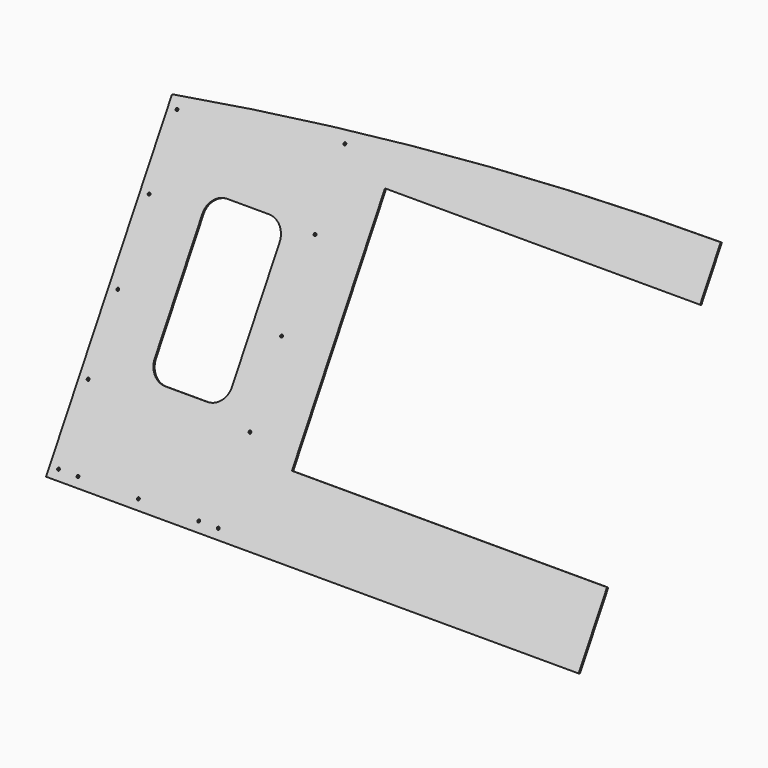
from build123d import *

# Parameters (mm, degrees)
PAD003_DEPTH            = 2
SKETCH080_R             = 1.5
POCKET040_DEPTH         = 5
SKETCH087_R             = 1.5
POCKET045_DEPTH         = 5
BODY002_PLACEMENT_ANGLE = 330


with BuildPart() as part:
    # Sketch052 → Pad003 (new body)
    with BuildSketch(Plane.XZ):
        with BuildLine():
            Line((-300, -200), (300, -200))
            Line((300, -200), (300, -120))
            Line((-55, -120), (300, -120))
            Line((-55, 142), (-55, -120))
            Line((300, 142), (-55, 142))
            Line((300, 142), (300, 200))
            ThreePointArc((300, 200), (-0.85049, 188.685012), (-300, 154.79376))
            Line((-300, 154.79376), (-300, -200))
        make_face()
        with BuildLine():
            Line((-230, 65.13076), (-230, -68.86924))
            ThreePointArc((-230, -68.86924), (-224.142136, -83.011376), (-210, -88.86924))
            Line((-210, -88.86924), (-163, -88.86924))
            ThreePointArc((-163, -88.86924), (-148.857864, -83.011376), (-143, -68.86924))
            Line((-143, -68.86924), (-143, 65.13076))
            ThreePointArc((-143, 65.13076), (-148.857864, 79.272896), (-163, 85.13076))
            Line((-163, 85.13076), (-210, 85.13076))
            ThreePointArc((-210, 85.13076), (-224.142136, 79.272896), (-230, 65.13076))
        make_face(mode=Mode.SUBTRACT)
    extrude(amount=-PAD003_DEPTH)

    # Sketch080 (on Face2 of Binder014) → Pocket040 (cut)
    with BuildSketch(Plane(origin=(0, 3.732051, 0), x_dir=(-1, 0, 0), z_dir=(0, 1, 0))):
        with Locations((290, -190)):
            Circle(SKETCH080_R)
        with Locations((110, -190)):
            Circle(SKETCH080_R)
        with Locations((110, -100.851579)):
            Circle(SKETCH080_R)
        with Locations((110, -11.703157)):
            Circle(SKETCH080_R)
        with Locations((110, 82.445264)):
            Circle(SKETCH080_R)
        with Locations((110, 166.593685)):
            Circle(SKETCH080_R)
        with Locations((290, 143.673156)):
            Circle(SKETCH080_R)
        with Locations((290, 65.254867)):
            Circle(SKETCH080_R)
        with Locations((290, -23.163422)):
            Circle(SKETCH080_R)
        with Locations((290, -106.581711)):
            Circle(SKETCH080_R)
    extrude(amount=-POCKET040_DEPTH, mode=Mode.SUBTRACT)

    # Sketch087 (on Face5 of Pocket040) → Pocket045 (cut)
    with BuildSketch(Plane(origin=(0, 2, 0), x_dir=(1, 0, 0), z_dir=(0, 1, 0))):
        with Locations((-132, 190)):
            Circle(SKETCH087_R)
        with Locations((-200, 190)):
            Circle(SKETCH087_R)
        with Locations((-268, 190)):
            Circle(SKETCH087_R)
    extrude(amount=-POCKET045_DEPTH, mode=Mode.SUBTRACT)


with BuildPart() as part_1:
    # Body002 placement: moved
    add(part.part.moved(Location((0, 98.167949, -28.994919))).rotate(Axis((0, 98.167949, -28.994919), (1, 0, 0)), BODY002_PLACEMENT_ANGLE))


solid = part_1.part
